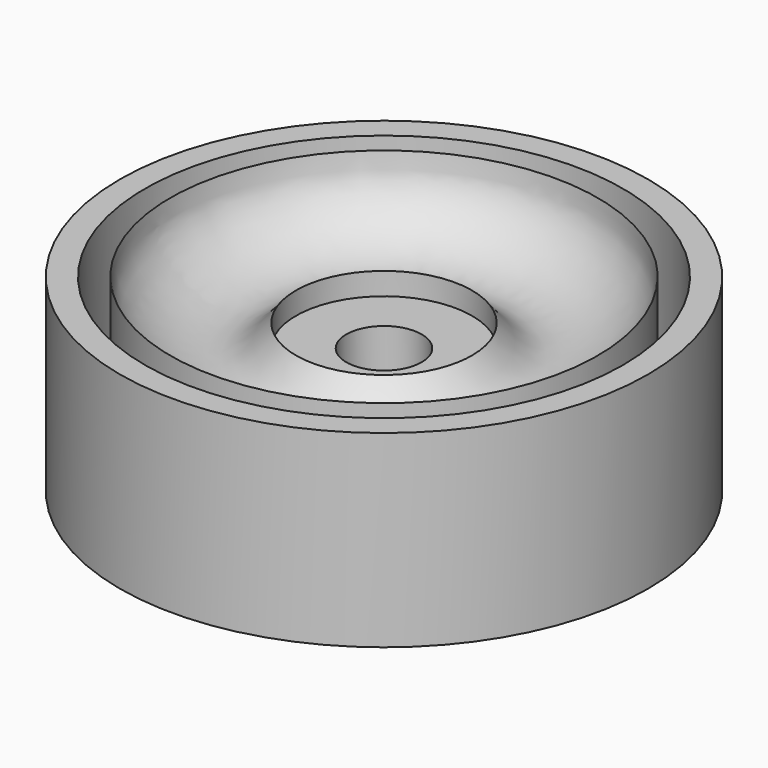
from build123d import *

# Parameters (mm, degrees)
F0_R      = 10.5
F0_R_2    = 9.5
F1_DEPTH  = 7.5
F0_R_3    = 8.5
F0_R_4    = 3.5
F2_DEPTH  = 6
F5_W      = 9
F5_H      = 1
F5_W_2    = 1
F5_H_2    = 9
F6_DEPTH  = 3
F8_R      = 3.5
F8_R_2    = 1.5
F9_DEPTH  = 3.5
F0_R_5    = 1.5
F10_DEPTH = 6


with BuildPart() as f1:
    # F0 (on Top) → F1 (new body)
    with BuildSketch(Plane.XY):
        Circle(F0_R)
        Circle(F0_R_2, mode=Mode.SUBTRACT)
    extrude(amount=-F1_DEPTH)



with BuildPart() as f2:
    # F0 (on Top) → F2 (new body)
    with BuildSketch(Plane.XY):
        Circle(F0_R_3)
        Circle(F0_R_4, mode=Mode.SUBTRACT)
    extrude(amount=-F2_DEPTH)


with BuildPart() as f1_1:
    add(f1.part)

    add(f2.part)  # F6 merges F2
    # F5 (on offset) → F6 (join)
    with BuildSketch(Plane.XY.offset(-2.5)):
        with Locations((-5, 0)):
            Rectangle(F5_W, F5_H)
        with Locations((0, 5)):
            Rectangle(F5_W_2, F5_H_2)
        Rectangle(F5_W_2, F5_H)
        with Locations((5, 0)):
            Rectangle(F5_W, F5_H)
        with Locations((0, -5)):
            Rectangle(F5_W_2, F5_H_2)
    extrude(amount=-F6_DEPTH)

    # F3 (on Front) → F7 (revolve, cut)
    with BuildSketch(Plane.XZ):
        with BuildLine():
            Line((0, 0.069658272), (-8.4977783263, 0.0271935514))
            add(Edge.make_bspline(
                [(-8.4977783263, 0.0271935514), (-8.4390711904, -0.1936509699), (-8.5319644113, -0.9331612071), (-7.3101581266, -2.5228604066), (-4.8192842499, -3.2569469358), (-3.4470196357, -1.6163358317), (-2.5980696171, -0.2120298583), (-0.5223557571, -0.492685907), (0, -0.1791804971)],
                knots=[0, 0, 0, 0, 0.1159478411, 0.2887836686, 0.4788440423, 0.6507860288, 0.8064986974, 1, 1, 1, 1], degree=3))
            Line((0, -0.1791804971), (0, 0.069658272))
        make_face()
    revolve(axis=Axis((0, 0, 0.069658272), (0, 0, -1)), mode=Mode.SUBTRACT)

    # F8 (on offset) → F9 (join, through all)
    with BuildSketch(Plane.XY.offset(-2.5)):
        Circle(F8_R)
        Circle(F8_R_2, mode=Mode.SUBTRACT)
    extrude(amount=-F9_DEPTH)

    # F0 (on Top) → F10 (cut, through all)
    with BuildSketch(Plane.XY):
        Circle(F0_R_5)
    extrude(amount=-F10_DEPTH, mode=Mode.SUBTRACT)


solid = f1_1.part
